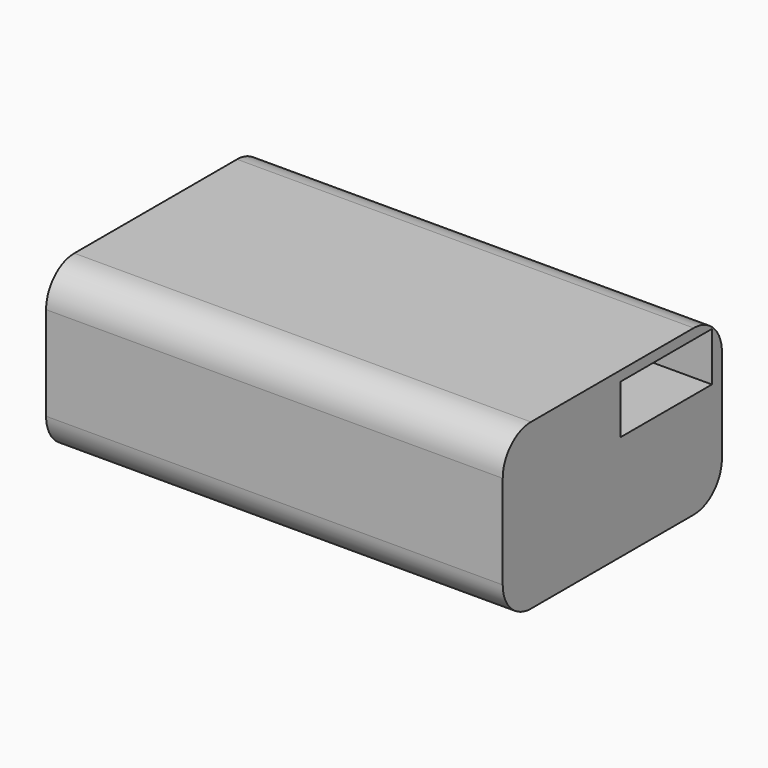
from build123d import *

# Parameters (mm, degrees)
F0_W     = 127
F0_H     = 76.2
F1_DEPTH = 45.72
F2_R     = 9.811364
F3_R     = 8.804224
F4_DEPTH = 3.302
F5_W     = 31.836366
F5_H     = 13.6
F6_DEPTH = 50.8


with BuildPart() as f1:
    # F0 (on Top) → F1 (new body)
    with BuildSketch(Plane.XY):
        Rectangle(F0_W, F0_H)
    extrude(amount=F1_DEPTH)

    # F2
    f2_edges = [f1.edges().sort_by_distance(p)[0] for p in [
        (0, -38.1, 45.72),
        (0, 38.1, 45.72),
        (0, -38.1, 0),
        (0, 38.1, 0),
    ]]
    fillet(f2_edges, radius=F2_R)

    # F3 (on face) → F4 (join)
    with BuildSketch(Plane(origin=(0, 0, 0), x_dir=(1, 0, 0), z_dir=(0, 0, -1))):
        with Locations((33.669599, 15.421356)):
            Circle(F3_R)
    extrude(amount=F4_DEPTH)

    # F5 (on face) → F6 (cut)
    with BuildSketch(Plane.YZ.offset(63.5)):
        with Locations((18.707377, 36.119621)):
            Rectangle(F5_W, F5_H)
    extrude(amount=-F6_DEPTH, mode=Mode.SUBTRACT)


solid = f1.part
